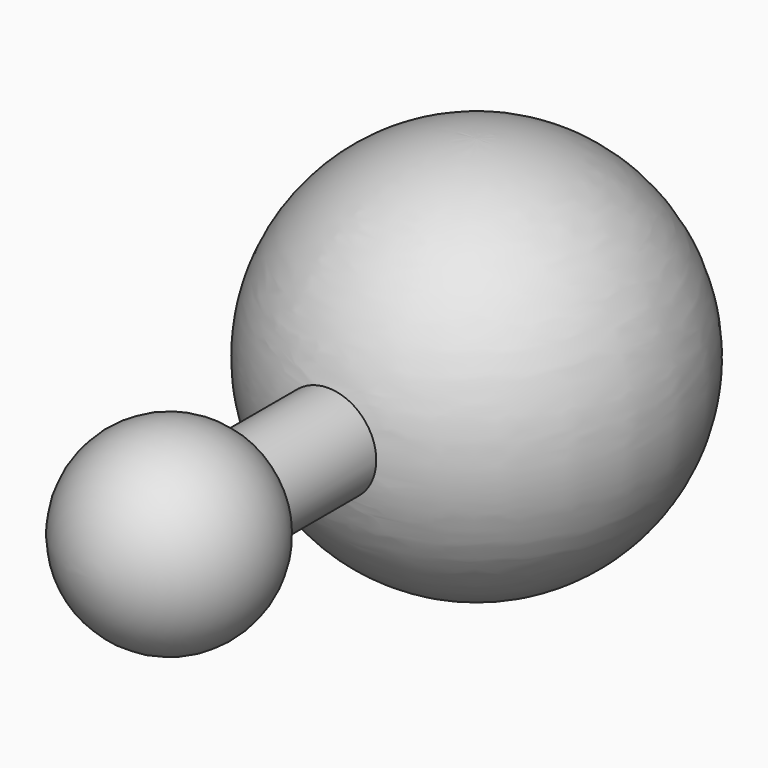
from build123d import *

# Parameters (mm, degrees)
F2_R     = 6.35
F3_DEPTH = 50.8


with BuildPart() as f1:
    # F0 (on Front) → F1 (revolve)
    with BuildSketch(Plane.XZ):
        with BuildLine():
            ThreePointArc((0, 25.4), (-25.324518, 0), (0, -25.4))
            Line((0, -25.4), (0, 25.4))
        make_face()
    revolve(axis=Axis((0, 0, 0), (0, 0, 1)))

    # F2 (on Front) → F3 (join)
    with BuildSketch(Plane.XZ):
        Circle(F2_R)
    extrude(amount=F3_DEPTH)

    # F4 (on Top) → F5 (revolve)
    with BuildSketch(Plane.XY):
        with BuildLine():
            Line((0, -63.5), (0, -38.1))
            ThreePointArc((0, -38.1), (-12.7, -50.8), (0, -63.5))
        make_face()
    revolve(axis=Axis((0, -50.8, 0), (0, -1, 0)))


solid = f1.part
